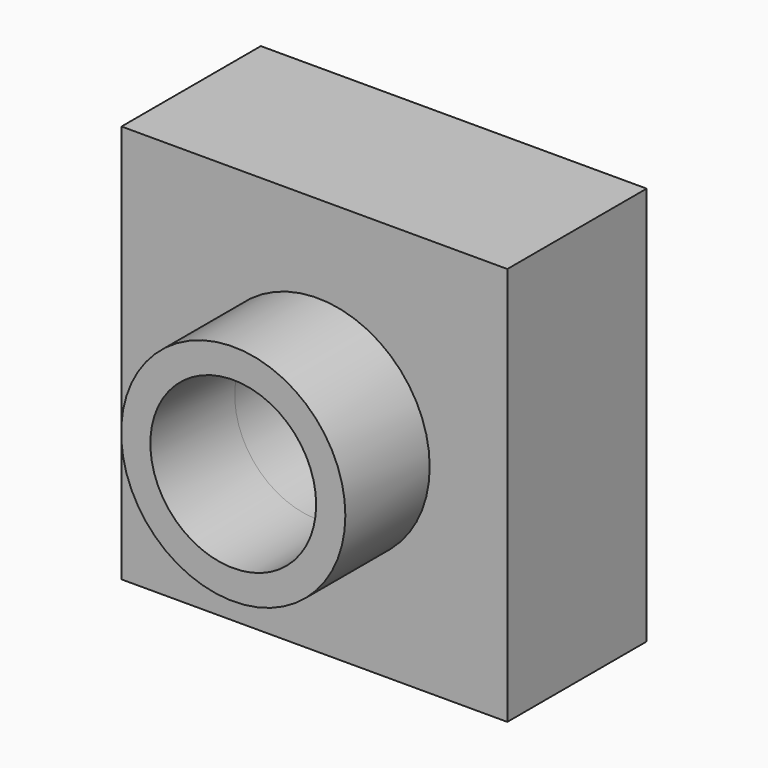
from build123d import *

# Parameters (mm, degrees)
F0_W     = 41.9582277536
F0_H     = 96.0698723793
F1_DEPTH = 45.72
F2_DEPTH = 47.244
F3_R     = 27.0129618135
F3_R_2   = 19.972912416
F4_DEPTH = 25.4
F5_DEPTH = 76.708


with BuildPart() as f1:
    # F0 (on Right) → F1 (new body)
    with BuildSketch(Plane.YZ):
        Rectangle(F0_W, F0_H)
    extrude(amount=F1_DEPTH)

    # F2 (add): a face of the model
    f2_faces = [f1.faces().sort_by_distance(p)[0] for p in [
        (0, 0, 0),
    ]]
    extrude(f2_faces, amount=F2_DEPTH)

    # F3 (on face) → F4 (join)
    with BuildSketch(Plane.XZ.offset(20.9791138768)):
        Circle(F3_R)
        Circle(F3_R_2, mode=Mode.SUBTRACT)
    extrude(amount=F4_DEPTH)

    # F5 (cut): a face of the model
    f5_faces = [f1.faces().sort_by_distance(p)[0] for p in [
        (0, -20.9791138768, 0),
    ]]
    extrude(f5_faces, amount=-F5_DEPTH, mode=Mode.SUBTRACT)


solid = f1.part
